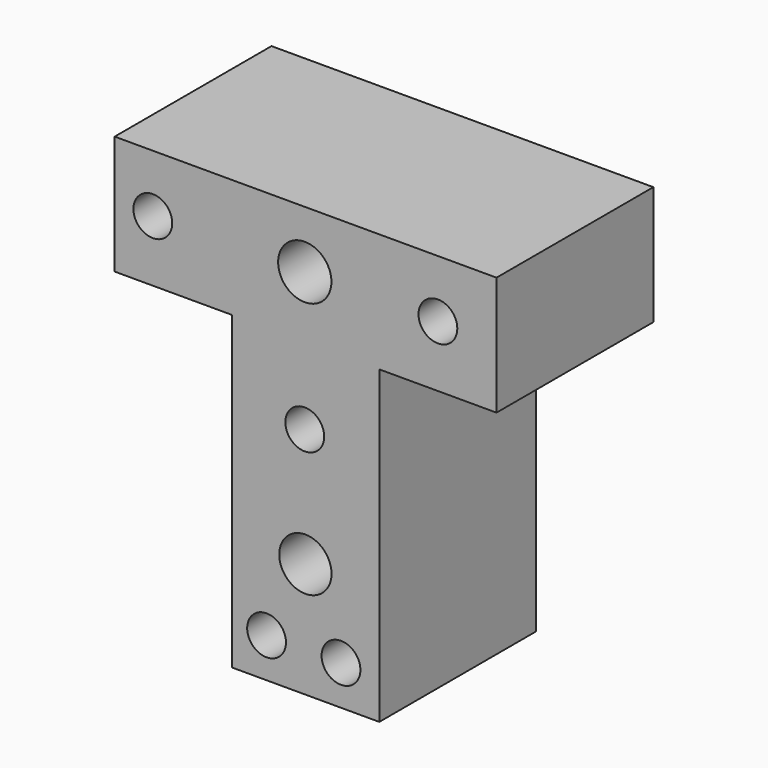
from build123d import *

# Parameters (mm, degrees)
F0_R     = 2.413
F0_R_2   = 3.2512
F0_R_3   = 3.3147
F1_DEPTH = 24.384


with BuildPart() as f1:
    # F0 (on Front) → F1 (new body)
    with BuildSketch(Plane.XZ):
        Polygon((32.9184, 28.943862), (-14.5796, 28.943862), (-14.5796, 14.161062), (0, 14.161062), (0, -24.446938), (18.3388, -24.446938), (18.3388, 14.161062), (32.9184, 14.161062), align=None)
        with Locations((4.317999, -19.524282)):
            Circle(F0_R, mode=Mode.SUBTRACT)
        with Locations((9.143999, -10.159998)):
            Circle(F0_R_2, mode=Mode.SUBTRACT)
        with Locations((13.571819, -19.524282)):
            Circle(F0_R, mode=Mode.SUBTRACT)
        with Locations((9.0678, 4.570901)):
            Circle(F0_R, mode=Mode.SUBTRACT)
        with Locations((-9.830709, 21.781059)):
            Circle(F0_R, mode=Mode.SUBTRACT)
        with Locations((9.0678, 21.808036)):
            Circle(F0_R_3, mode=Mode.SUBTRACT)
        with Locations((25.6286, 21.781059)):
            Circle(F0_R, mode=Mode.SUBTRACT)
    extrude(amount=F1_DEPTH)


solid = f1.part
